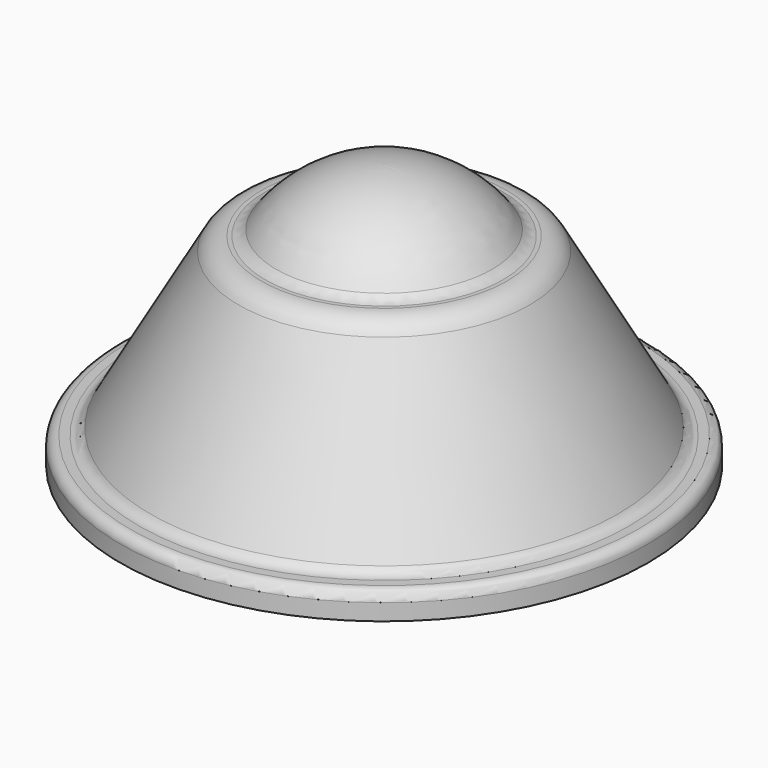
from build123d import *

# Parameters (mm, degrees)
F2_R = 12.7
F3_R = 9.525
F4_R = 25.4
F5_R = 12.7
F6_T = -2.54


with BuildPart() as f1:
    # F0 (on Front) → F1 (revolve)
    with BuildSketch(Plane.XZ):
        with BuildLine():
            Line((0, 254), (0, 0))
            Line((0, 0), (254, 0))
            Line((254, 0), (254, 25.4))
            Line((254, 25.4), (228.6, 25.4))
            Line((228.6, 25.4), (133.014512, 194.439726))
            Line((133.014512, 194.439726), (107.614512, 194.439726))
            ThreePointArc((107.614512, 194.439726), (61.498596, 238.116707), (0, 254))
        make_face()
    revolve(axis=Axis((0, 0, 127), (0, 0, 1)))

    # F2
    f2_edges = [f1.edges().sort_by_distance(p)[0] for p in [
        (-228.6, 0, 25.4),
    ]]
    fillet(f2_edges, radius=F2_R)

    # F3
    f3_edges = [f1.edges().sort_by_distance(p)[0] for p in [
        (-254, 0, 25.4),
    ]]
    fillet(f3_edges, radius=F3_R)

    # F4
    f4_edges = [f1.edges().sort_by_distance(p)[0] for p in [
        (-133.014512, 0, 194.439726),
    ]]
    fillet(f4_edges, radius=F4_R)

    # F5
    f5_edges = [f1.edges().sort_by_distance(p)[0] for p in [
        (-107.614512, 0, 194.439726),
    ]]
    fillet(f5_edges, radius=F5_R)

    # F6
    f6_openings = [f1.faces().sort_by_distance(p)[0] for p in [
        (0, 0, 0),
    ]]
    offset(amount=F6_T, openings=f6_openings)


solid = f1.part
